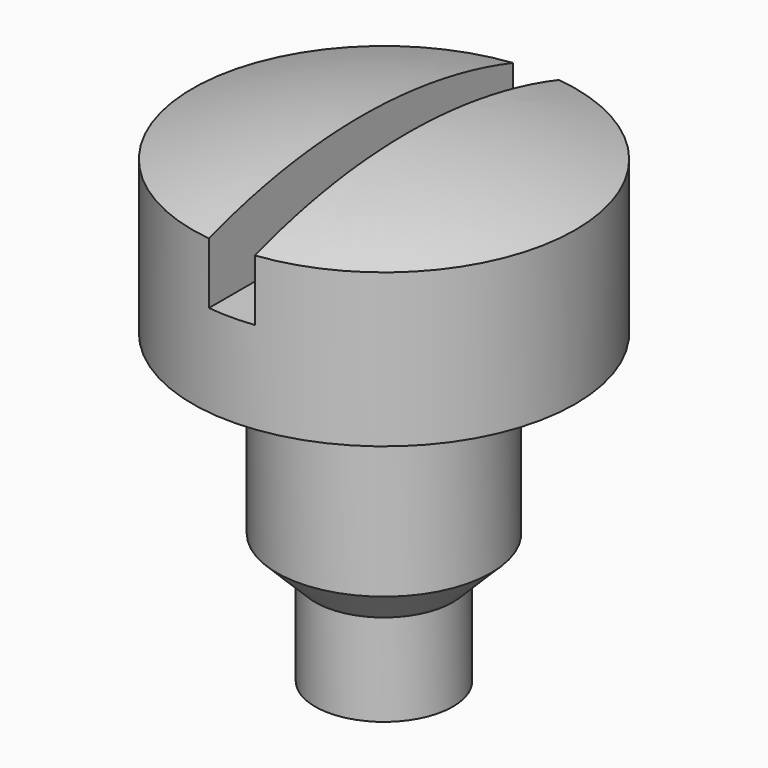
from build123d import *

# Parameters (mm, degrees)
F2_W     = 0.3
F2_H     = 0.65
F3_DEPTH = 12.5


with BuildPart() as f1:
    # F0 (on Front) → F1 (revolve)
    with BuildSketch(Plane.XZ):
        Polygon((0, 3), (0, 0), (0.45, 0), (0.45, 0.6), (0.7, 0.85), (0.7, 2), (1.25, 2), (1.25, 3), align=None)
        with BuildLine():
            Line((0, 3.2003289616), (0, 3))
            Line((0, 3), (1.25, 3))
            ThreePointArc((1.25, 3), (0.6329754523, 3.1499292043), (0, 3.2003289616))
        make_face()
    revolve(axis=Axis((0, 0, 1.5), (0, 0, -1)))

    # F2 (on Front) → F3 (cut, symmetric)
    with BuildSketch(Plane.XZ):
        with Locations((0, 2.9253289616)):
            Rectangle(F2_W, F2_H)
    extrude(amount=F3_DEPTH, both=True, mode=Mode.SUBTRACT)


solid = f1.part
